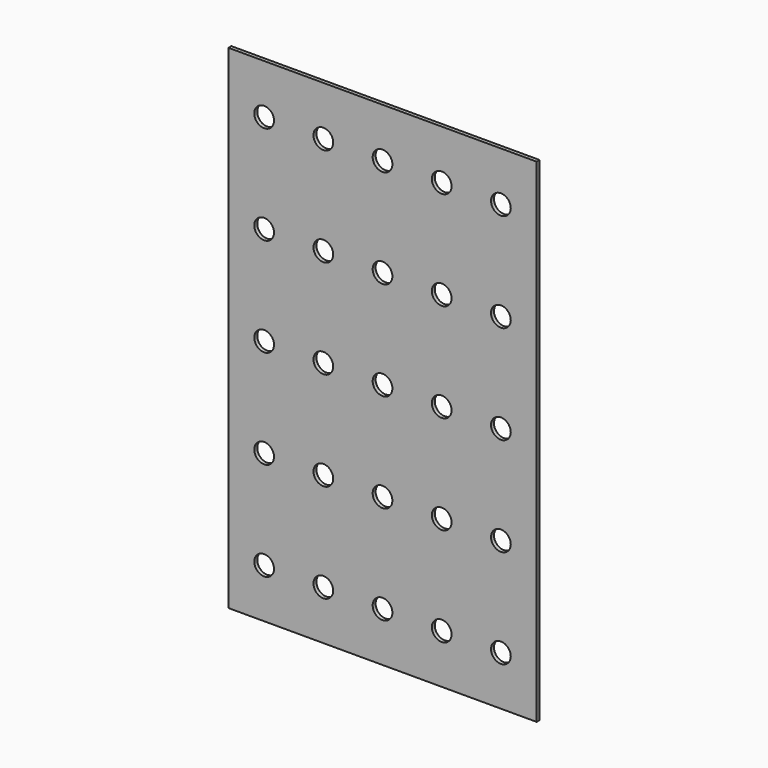
from build123d import *

# Parameters (mm, degrees)
F0_W     = 79.375
F0_H     = 127
F0_R     = 2.54
F1_DEPTH = 0.9525


with BuildPart() as f1:
    # F0 (on Front) → F1 (new body)
    with BuildSketch(Plane.XZ):
        Rectangle(F0_W, F0_H)
        with Locations((-30.48, -50.8)):
            Circle(F0_R, mode=Mode.SUBTRACT)
        with Locations((-15.24, -50.8)):
            Circle(F0_R, mode=Mode.SUBTRACT)
        with Locations((-30.48, -25.4)):
            Circle(F0_R, mode=Mode.SUBTRACT)
        with Locations((-15.24, -25.4)):
            Circle(F0_R, mode=Mode.SUBTRACT)
        with Locations((0, -50.8)):
            Circle(F0_R, mode=Mode.SUBTRACT)
        with Locations((15.24, -50.8)):
            Circle(F0_R, mode=Mode.SUBTRACT)
        with Locations((30.48, -50.8)):
            Circle(F0_R, mode=Mode.SUBTRACT)
        with Locations((0, -25.4)):
            Circle(F0_R, mode=Mode.SUBTRACT)
        with Locations((15.24, -25.4)):
            Circle(F0_R, mode=Mode.SUBTRACT)
        with Locations((30.48, -25.4)):
            Circle(F0_R, mode=Mode.SUBTRACT)
        with Locations((-30.48, 0)):
            Circle(F0_R, mode=Mode.SUBTRACT)
        with Locations((-30.48, 25.4)):
            Circle(F0_R, mode=Mode.SUBTRACT)
        with Locations((-15.24, 0)):
            Circle(F0_R, mode=Mode.SUBTRACT)
        with Locations((-15.24, 25.4)):
            Circle(F0_R, mode=Mode.SUBTRACT)
        with Locations((-30.48, 50.8)):
            Circle(F0_R, mode=Mode.SUBTRACT)
        with Locations((-15.24, 50.8)):
            Circle(F0_R, mode=Mode.SUBTRACT)
        Circle(F0_R, mode=Mode.SUBTRACT)
        with Locations((15.24, 0)):
            Circle(F0_R, mode=Mode.SUBTRACT)
        with Locations((0, 25.4)):
            Circle(F0_R, mode=Mode.SUBTRACT)
        with Locations((15.24, 25.4)):
            Circle(F0_R, mode=Mode.SUBTRACT)
        with Locations((30.48, 0)):
            Circle(F0_R, mode=Mode.SUBTRACT)
        with Locations((30.48, 25.4)):
            Circle(F0_R, mode=Mode.SUBTRACT)
        with Locations((0, 50.8)):
            Circle(F0_R, mode=Mode.SUBTRACT)
        with Locations((15.24, 50.8)):
            Circle(F0_R, mode=Mode.SUBTRACT)
        with Locations((30.48, 50.8)):
            Circle(F0_R, mode=Mode.SUBTRACT)
    extrude(amount=-F1_DEPTH)


solid = f1.part
